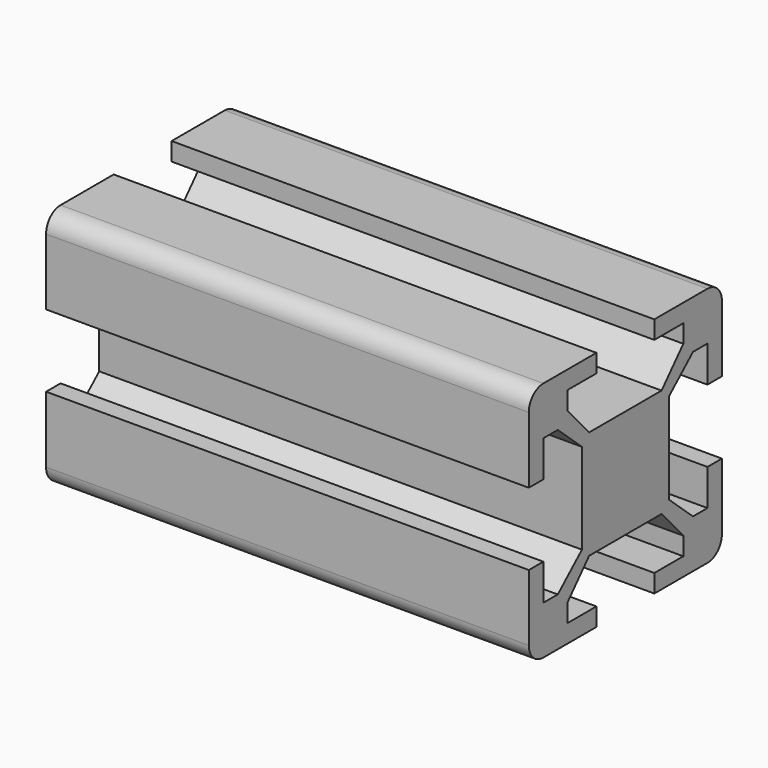
from build123d import *

# Parameters (mm, degrees)
F1_DEPTH = 40
F2_R     = 1
F3_DEPTH = 1


with BuildPart() as f1:
    # F0 (on Right) → F1 (new body)
    with BuildSketch(Plane.YZ):
        with BuildLine():
            ThreePointArc((10, 8.5), (9.56066, 9.56066), (8.5, 10))
            Line((8.5, 10), (3, 10))
            Line((3, 10), (3, 8.5))
            Line((3, 8.5), (6, 8.5))
            Line((6, 8.5), (6, 7))
            Line((6, 7), (3.75, 4.5))
            Line((3.75, 4.5), (0, 4.5))
            Line((0, 4.5), (-3.75, 4.5))
            Line((-3.75, 4.5), (-6, 7))
            Line((-6, 7), (-6, 8.5))
            Line((-6, 8.5), (-3, 8.5))
            Line((-3, 8.5), (-3, 10))
            Line((-3, 10), (-8.5, 10))
            ThreePointArc((-8.5, 10), (-9.56066, 9.56066), (-10, 8.5))
            Line((-10, 8.5), (-10, 3))
            Line((-10, 3), (-8.5, 3))
            Line((-8.5, 3), (-8.5, 6))
            Line((-8.5, 6), (-7, 6))
            Line((-7, 6), (-4.5, 3.75))
            Line((-4.5, 3.75), (-4.5, 0))
            Line((-4.5, 0), (-4.5, -3.75))
            Line((-4.5, -3.75), (-7, -6))
            Line((-7, -6), (-8.5, -6))
            Line((-8.5, -6), (-8.5, -3))
            Line((-8.5, -3), (-10, -3))
            Line((-10, -3), (-10, -8.5))
            ThreePointArc((-10, -8.5), (-9.56066, -9.56066), (-8.5, -10))
            Line((-8.5, -10), (-3, -10))
            Line((-3, -10), (-3, -8.5))
            Line((-3, -8.5), (-6, -8.5))
            Line((-6, -8.5), (-6, -7))
            Line((-6, -7), (-3.75, -4.5))
            Line((-3.75, -4.5), (0, -4.5))
            Line((0, -4.5), (3.75, -4.5))
            Line((3.75, -4.5), (6, -7))
            Line((6, -7), (6, -8.5))
            Line((6, -8.5), (3, -8.5))
            Line((3, -8.5), (3, -10))
            Line((3, -10), (8.5, -10))
            ThreePointArc((8.5, -10), (9.56066, -9.56066), (10, -8.5))
            Line((10, -8.5), (10, -3))
            Line((10, -3), (8.5, -3))
            Line((8.5, -3), (8.5, -6))
            Line((8.5, -6), (7, -6))
            Line((7, -6), (4.5, -3.75))
            Line((4.5, -3.75), (4.5, 0))
            Line((4.5, 0), (4.5, 3.75))
            Line((4.5, 3.75), (7, 6))
            Line((7, 6), (8.5, 6))
            Line((8.5, 6), (8.5, 3))
            Line((8.5, 3), (10, 3))
            Line((10, 3), (10, 8.5))
        make_face()
    extrude(amount=F1_DEPTH)

    # F2 (on face) → F3 (cut)
    with BuildSketch(Plane.XY.offset(4.5)):
        with Locations((15, 0)):
            Circle(F2_R)
        with Locations((25, 0)):
            Circle(F2_R)
    extrude(amount=-F3_DEPTH, mode=Mode.SUBTRACT)


solid = f1.part
